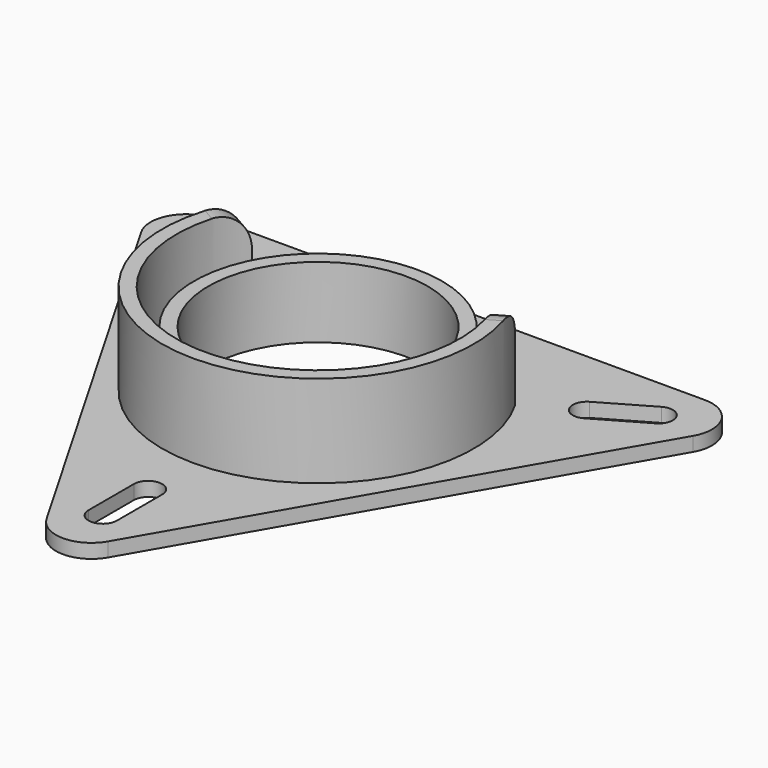
from build123d import *

# Parameters (mm, degrees)
F0_R     = 17.5
F1_DEPTH = 2
F2_DEPTH = 15
F0_R_2   = 15.5
F3_DEPTH = 10
F4_R     = 5


with BuildPart() as f1:
    # F0 (on Top) → F1 (new body)
    with BuildSketch(Plane.XY):
        with BuildLine():
            Line((34.641016, 25), (-34.641016, 25))
            ThreePointArc((-34.641016, 25), (-38.971143, 22.5), (-38.971143, 17.5))
            Line((-38.971143, 17.5), (-4.330127, -42.5))
            ThreePointArc((-4.330127, -42.5), (0, -45), (4.330127, -42.5))
            Line((4.330127, -42.5), (38.971143, 17.5))
            ThreePointArc((38.971143, 17.5), (38.971143, 22.5), (34.641016, 25))
        make_face()
        with BuildLine():
            ThreePointArc((2, -38), (0, -40), (-2, -38))
            Line((-2, -38), (-2, -30))
            ThreePointArc((-2, -30), (0, -28), (2, -30))
            Line((2, -30), (2, -38))
        make_face(mode=Mode.SUBTRACT)
        with BuildLine():
            ThreePointArc((-33.908965, 17.267949), (-34.641016, 20), (-31.908965, 20.732051))
            Line((-31.908965, 20.732051), (-24.980762, 16.732051))
            ThreePointArc((-24.980762, 16.732051), (-24.248711, 14), (-26.980762, 13.267949))
            Line((-26.980762, 13.267949), (-33.908965, 17.267949))
        make_face(mode=Mode.SUBTRACT)
        with BuildLine():
            Line((-19.052559, 11), (-17.320508, 10))
            ThreePointArc((-17.320508, 10), (0, -20), (17.320508, 10))
            Line((17.320508, 10), (19.052559, 11))
            ThreePointArc((19.052559, 11), (0, -22), (-19.052559, 11))
        make_face(mode=Mode.SUBTRACT)
        Circle(F0_R, mode=Mode.SUBTRACT)
        with BuildLine():
            ThreePointArc((31.908965, 20.732051), (34.641016, 20), (33.908965, 17.267949))
            Line((33.908965, 17.267949), (26.980762, 13.267949))
            ThreePointArc((26.980762, 13.267949), (24.248711, 14), (24.980762, 16.732051))
            Line((24.980762, 16.732051), (31.908965, 20.732051))
        make_face(mode=Mode.SUBTRACT)
    extrude(amount=F1_DEPTH)

    # F0 (on Top) → F2 (join)
    with BuildSketch(Plane.XY):
        with BuildLine():
            ThreePointArc((17.320508, 10), (0, -20), (-17.320508, 10))
            Line((-17.320508, 10), (-19.052559, 11))
            ThreePointArc((-19.052559, 11), (0, -22), (19.052559, 11))
            Line((19.052559, 11), (17.320508, 10))
        make_face()
    extrude(amount=F2_DEPTH)

    # F0 (on Top) → F3 (join)
    with BuildSketch(Plane.XY):
        Circle(F0_R)
        Circle(F0_R_2, mode=Mode.SUBTRACT)
    extrude(amount=F3_DEPTH)

    # F4
    f4_edges = [f1.edges().sort_by_distance(p)[0] for p in [
        (-18.186533, 10.5, 15),
        (18.186533, 10.5, 15),
    ]]
    fillet(f4_edges, radius=F4_R)


solid = f1.part
